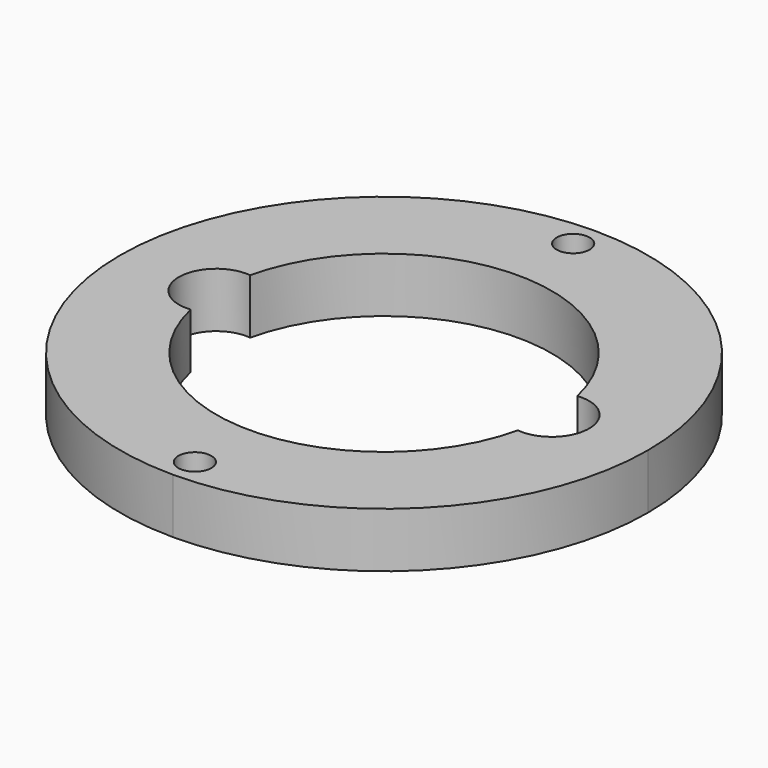
from build123d import *

# Parameters (mm, degrees)
F1_DEPTH = 5
F2_D     = 3


with BuildPart() as f1:
    # F0 (on Top) → F1 (new body)
    with BuildSketch(Plane.XY):
        with BuildLine():
            ThreePointArc((0, -19), (13.4350288425, -13.4350288425), (19, 0))
            ThreePointArc((19, 0), (13.4350288425, 13.4350288425), (0, 19))
            ThreePointArc((0, 19), (-19, 0), (0, -19))
        make_face()
        with BuildLine():
            ThreePointArc((-14.8709836066, 3.3788084547), (0, 15.25), (14.8709836066, 3.3788084547))
            ThreePointArc((14.8709836066, 3.3788084547), (18.65, 0), (14.8709836066, -3.3788084547))
            ThreePointArc((14.8709836066, -3.3788084547), (0, -15.25), (-14.8709836066, -3.3788084547))
            ThreePointArc((-14.8709836066, -3.3788084547), (-18.65, 0), (-14.8709836066, 3.3788084547))
        make_face(mode=Mode.SUBTRACT)
        with BuildLine():
            ThreePointArc((0, -19), (-19, 0), (0, 19))
            Line((0, 19), (0, 24))
            ThreePointArc((0, 24), (-24, 0), (0, -24))
            Line((0, -24), (0, -19))
        make_face()
        with BuildLine():
            ThreePointArc((0, 19), (13.4350288425, 13.4350288425), (19, 0))
            ThreePointArc((19, 0), (13.4350288425, -13.4350288425), (0, -19))
            Line((0, -19), (0, -24))
            ThreePointArc((0, -24), (16.9705627485, -16.9705627485), (24, 0))
            ThreePointArc((24, 0), (16.9705627485, 16.9705627485), (0, 24))
            Line((0, 24), (0, 19))
        make_face()
    extrude(amount=F1_DEPTH)

    # F2 (through all)
    with Locations(Plane(origin=(0, 0, 0), x_dir=(1, 0, 0), z_dir=(0, 0, -1))):
        with Locations((0, 21.5), (0, -21.5)):
            Hole(F2_D / 2)


solid = f1.part
